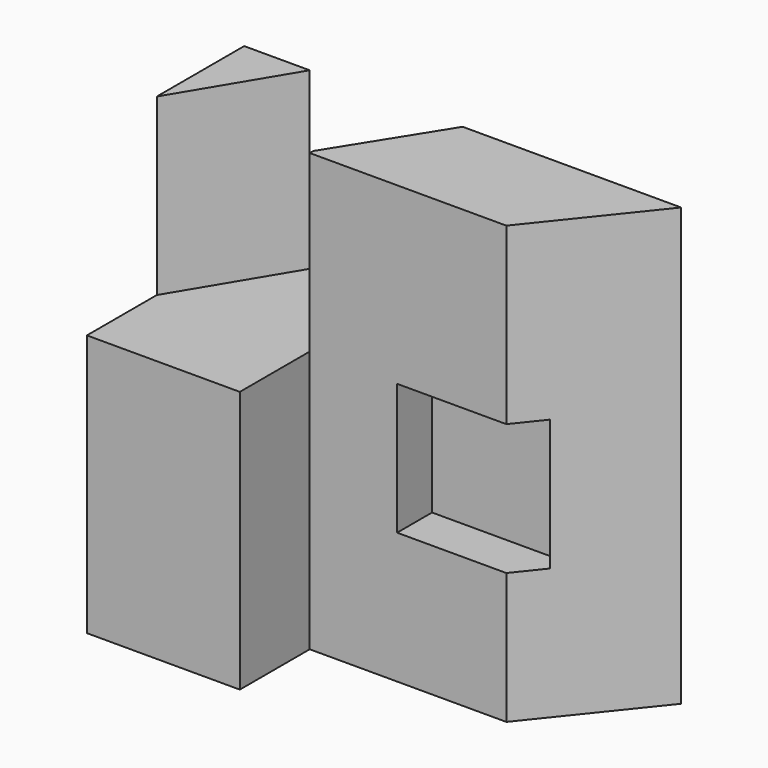
from build123d import *

# Parameters (mm, degrees)
F0_W      = 100
F0_H      = 45
F1_DEPTH  = 100
F3_DEPTH  = 40
F4_W      = 45
F4_H      = 20
F5_DEPTH  = 100.001
F7_DEPTH  = 100.001
F9_DEPTH  = 85
F10_W     = 30
F10_H     = 30
F11_DEPTH = 10


with BuildPart() as f1:
    # F0 (on Top) → F1 (new body)
    with BuildSketch(Plane.XY):
        with Locations((50, 22.5)):
            Rectangle(F0_W, F0_H)
    extrude(amount=F1_DEPTH)

    # F2 (on face) → F3 (cut)
    with BuildSketch(Plane.XY.offset(100)):
        Polygon((35, 45), (15, 45), (0, 20), (0, 0), (35, 0), align=None)
    extrude(amount=-F3_DEPTH, mode=Mode.SUBTRACT)

    # F4 (on face) → F5 (cut, through all)
    with BuildSketch(Plane.XY.offset(100)):
        with Locations((57.5, 10)):
            Rectangle(F4_W, F4_H)
    extrude(amount=-F5_DEPTH, mode=Mode.SUBTRACT)

    # F6 (on face) → F7 (cut, through all)
    with BuildSketch(Plane.XY.offset(100)):
        Polygon((100, 45), (80, 20), (80, 0), (100, 0), align=None)
    extrude(amount=-F7_DEPTH, mode=Mode.SUBTRACT)

    # F8 (on face) → F9 (cut)
    with BuildSketch(Plane.XY.offset(100)):
        Polygon((50, 45), (35, 45), (35, 21), align=None)
    extrude(amount=-F9_DEPTH, mode=Mode.SUBTRACT)

    # F10 (on face) → F11 (cut)
    with BuildSketch(Plane.XZ.offset(-20)):
        with Locations((70, 45)):
            Rectangle(F10_W, F10_H)
    extrude(amount=-F11_DEPTH, mode=Mode.SUBTRACT)


solid = f1.part
